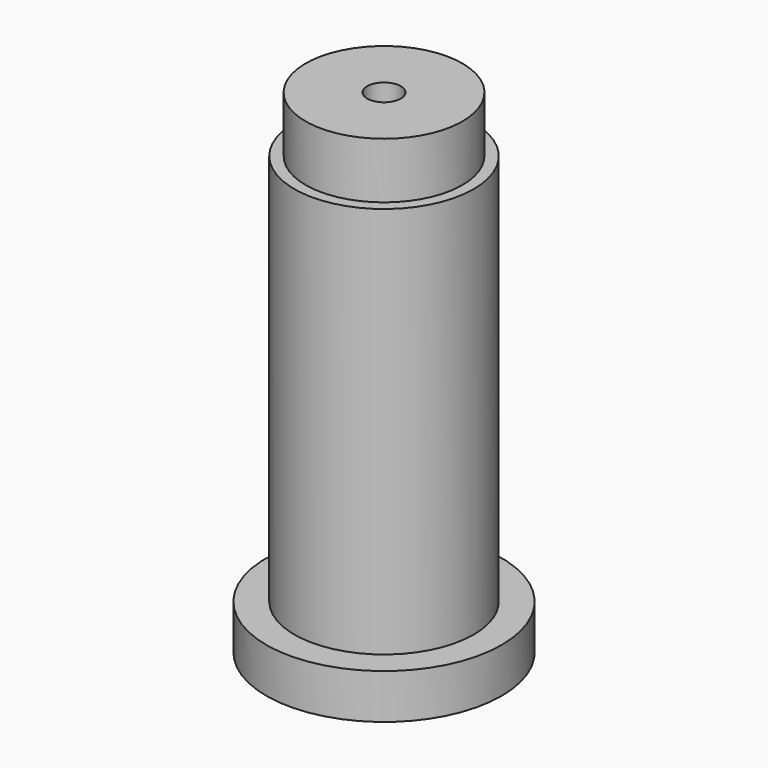
from build123d import *

# Parameters (mm, degrees)
F0_R     = 10.5
F1_DEPTH = 4
F2_R     = 8
F3_DEPTH = 39
F4_W     = 7
F4_H     = 5
F6_R     = 1.5
F7_DEPTH = 47.7


with BuildPart() as f1:
    # F0 (on Top) → F1 (new body)
    with BuildSketch(Plane.XY):
        Circle(F0_R)
    extrude(amount=F1_DEPTH)

    # F2 (on Top) → F3 (join)
    with BuildSketch(Plane.XY):
        Circle(F2_R)
    extrude(amount=F3_DEPTH)

    # F4 (on Right) → F5 (revolve)
    with BuildSketch(Plane.YZ):
        with Locations((3.5, 41.5)):
            Rectangle(F4_W, F4_H)
    revolve(axis=Axis((0, 0, 41.5), (0, 0, -1)))

    # F6 (on face) → F7 (cut)
    with BuildSketch(Plane.XY.offset(44)):
        Circle(F6_R)
    extrude(amount=-F7_DEPTH, mode=Mode.SUBTRACT)


solid = f1.part
